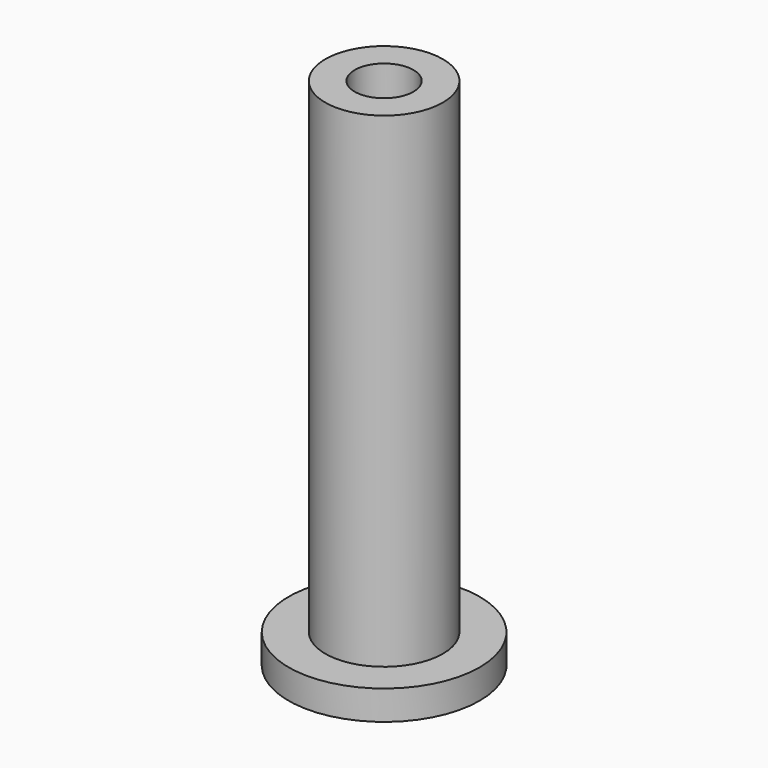
from build123d import *

# Parameters (mm, degrees)
F0_R     = 4
F1_DEPTH = 33
F2_R     = 6.5
F3_DEPTH = 2
F4_R     = 2
F5_DEPTH = 10


with BuildPart() as f1:
    # F0 (on Top) → F1 (new body)
    with BuildSketch(Plane.XY):
        Circle(F0_R)
    extrude(amount=F1_DEPTH)

    # F2 (on face) → F3 (join)
    with BuildSketch(Plane(origin=(0, 0, 0), x_dir=(1, 0, 0), z_dir=(0, 0, -1))):
        Circle(F2_R)
    extrude(amount=F3_DEPTH)

    # F4 (on face) → F5 (cut)
    with BuildSketch(Plane.XY.offset(33)):
        Circle(F4_R)
    extrude(amount=-F5_DEPTH, mode=Mode.SUBTRACT)


solid = f1.part
